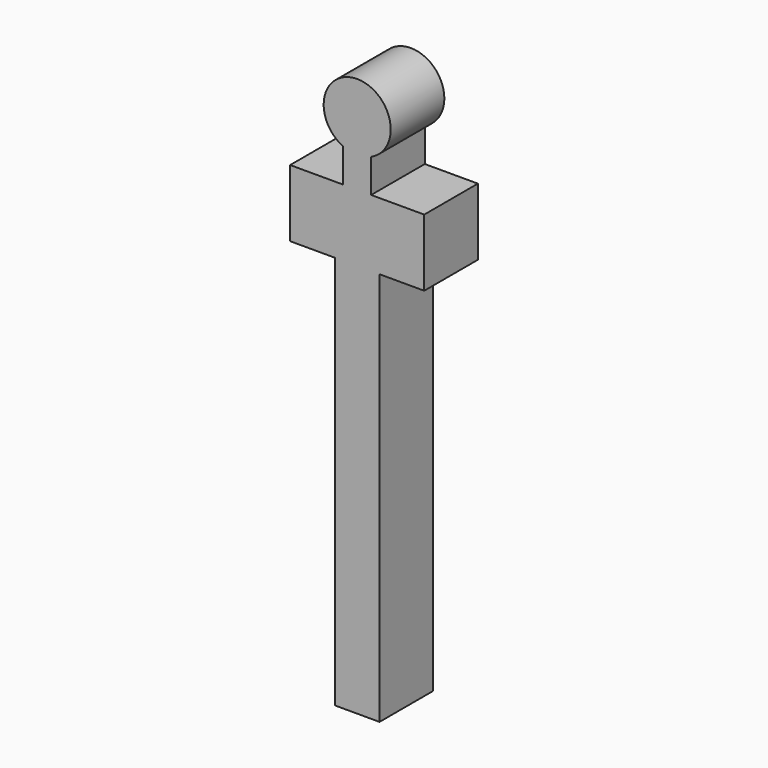
from build123d import *

# Parameters (mm, degrees)
F1_DEPTH = 152.4


with BuildPart() as f1:
    # F0 (on Front) → F1 (new body)
    with BuildSketch(Plane.XZ):
        with BuildLine():
            Line((31.75, -145.622278), (31.75, -69.270322))
            ThreePointArc((31.75, -69.270322), (0, 76.2), (-31.75, -69.270322))
            Line((-31.75, -69.270322), (-31.75, -145.622278))
            Line((-31.75, -145.622278), (-152.4, -145.622278))
            Line((-152.4, -145.622278), (-152.4, -298.022278))
            Line((-152.4, -298.022278), (-50.8, -298.022278))
            Line((-50.8, -298.022278), (-50.8, -1193.8))
            Line((-50.8, -1193.8), (50.8, -1193.8))
            Line((50.8, -1193.8), (50.8, -298.022278))
            Line((50.8, -298.022278), (152.4, -298.022278))
            Line((152.4, -298.022278), (152.4, -145.622278))
            Line((152.4, -145.622278), (31.75, -145.622278))
        make_face()
    extrude(amount=F1_DEPTH)


solid = f1.part
